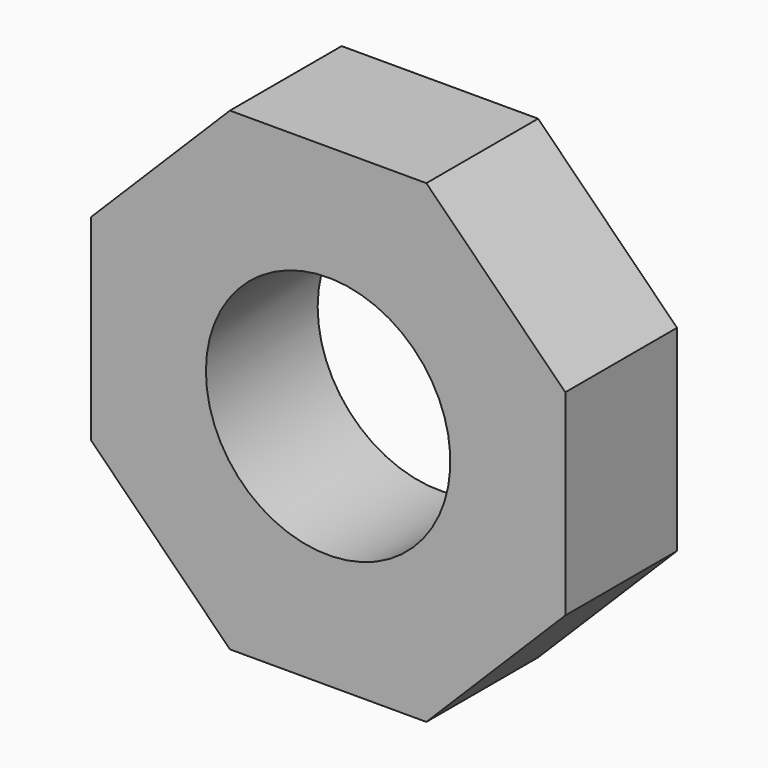
from build123d import *

# Parameters (mm, degrees)
F1_DEPTH = 25.4
F3_D     = 44.45


with BuildPart() as f1:
    # F0 (on Front) → F1 (new body)
    with BuildSketch(Plane.XZ):
        Polygon((17.863782, 43.126985), (-17.863782, 43.126985), (-43.126985, 17.863782), (-43.126985, -17.863782), (-17.863782, -43.126985), (17.863782, -43.126985), (43.126985, -17.863782), (43.126985, 17.863782), align=None)
    extrude(amount=F1_DEPTH)

    # F3 (through all)
    with Locations(Plane.XZ.offset(25.4)):
        with Locations((0, 0)):
            Hole(F3_D / 2)


solid = f1.part
